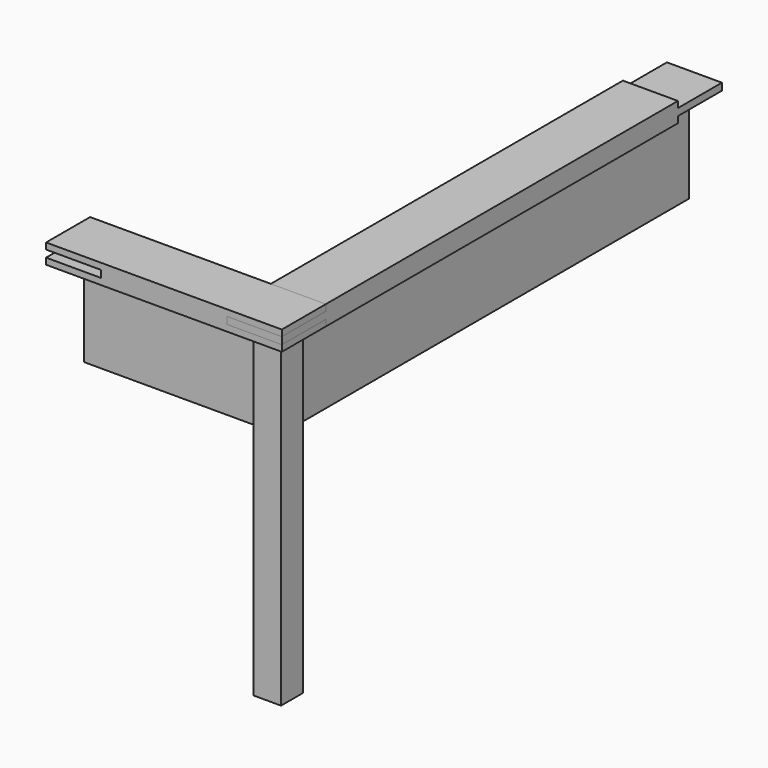
from build123d import *

# Parameters (mm, degrees)
F0_W      = 70
F0_H      = 70
F0_H_2    = 560
F1_DEPTH  = 25
F2_W      = 70
F2_H      = 8
F3_DEPTH  = 70
F0_W_2    = 160
F4_DEPTH  = 25
F5_W      = 70
F5_H      = 9
F6_DEPTH  = 70
F11_W     = 35
F11_H     = 35
F12_DEPTH = 400
F15_DEPTH = 25
F19_DEPTH = 100
F21_DEPTH = 100


with BuildPart() as f1:
    # F0 (on Top) → F1 (new body)
    with BuildSketch(Plane.XY):
        with Locations((35, -665)):
            Rectangle(F0_W, F0_H)
        with Locations((35, -350)):
            Rectangle(F0_W, F0_H_2)
        with Locations((35, -35)):
            Rectangle(F0_W, F0_H)
    extrude(amount=-F1_DEPTH)

    # F2 (on face) → F3 (cut, through all)
    with BuildSketch(Plane.YZ.offset(70)):
        with Locations((-35, -4)):
            Rectangle(F2_W, F2_H)
        with Locations((-35, -21)):
            Rectangle(F2_W, F2_H)
        with Locations((-665, -4)):
            Rectangle(F2_W, F2_H)
        with Locations((-665, -21)):
            Rectangle(F2_W, F2_H)
    extrude(amount=-F3_DEPTH, mode=Mode.SUBTRACT)


with BuildPart() as f4:
    # F0 (on Top) → F4 (new body, through all)
    with BuildSketch(Plane.XY):
        with Locations((35, -665)):
            Rectangle(F0_W, F0_H)
        with Locations((-80, -665)):
            Rectangle(F0_W_2, F0_H)
        with Locations((-195, -665)):
            Rectangle(F0_W, F0_H)
    extrude(amount=-F4_DEPTH)

    # F5 (on face) → F6 (cut, through all)
    with BuildSketch(Plane.XZ.offset(700)):
        with Locations((35, -12.5)):
            Rectangle(F5_W, F5_H)
        with Locations((-195, -12.5)):
            Rectangle(F5_W, F5_H)
    extrude(amount=-F6_DEPTH, mode=Mode.SUBTRACT)


with BuildPart() as f12:
    # F11 (on face) → F12 (new body)
    with BuildSketch(Plane(origin=(0, 0, -25), x_dir=(1, 0, 0), z_dir=(0, 0, -1))):
        with Locations((47.5, 677.5)):
            Rectangle(F11_W, F11_H)
    extrude(amount=F12_DEPTH)

    # F14 (on face) → F15 (cut, symmetric)
    with BuildSketch(Plane(origin=(-315, -315, 0), x_dir=(-0.7071067812, 0.7071067812, 0), z_dir=(0.7071067812, 0.7071067812, 0))):
        Polygon((-505.1524163602, -125), (-487.9036790187, -149.6337498531), (-487.9036790187, -25), (-505.1524163602, -25), align=None)
    extrude(amount=F15_DEPTH, both=True, mode=Mode.SUBTRACT)


with BuildPart() as f19:
    # F18 (on face) → F19 (new body)
    with BuildSketch(Plane(origin=(0, 0, -25), x_dir=(1, 0, 0), z_dir=(0, 0, -1))):
        Polygon((60, 350), (60, 660), (50, 660), (50, 350), (50, 40), (60, 40), align=None)
    extrude(amount=F19_DEPTH)


with BuildPart() as f21:
    # F20 (on face) → F21 (new body)
    with BuildSketch(Plane(origin=(0, 0, -25), x_dir=(1, 0, 0), z_dir=(0, 0, -1))):
        Polygon((30, 690), (-190, 690), (-190, 680), (-80, 680), (30, 680), align=None)
    extrude(amount=F21_DEPTH)


solid = Compound([f1.part, f4.part, f12.part, f19.part, f21.part])
